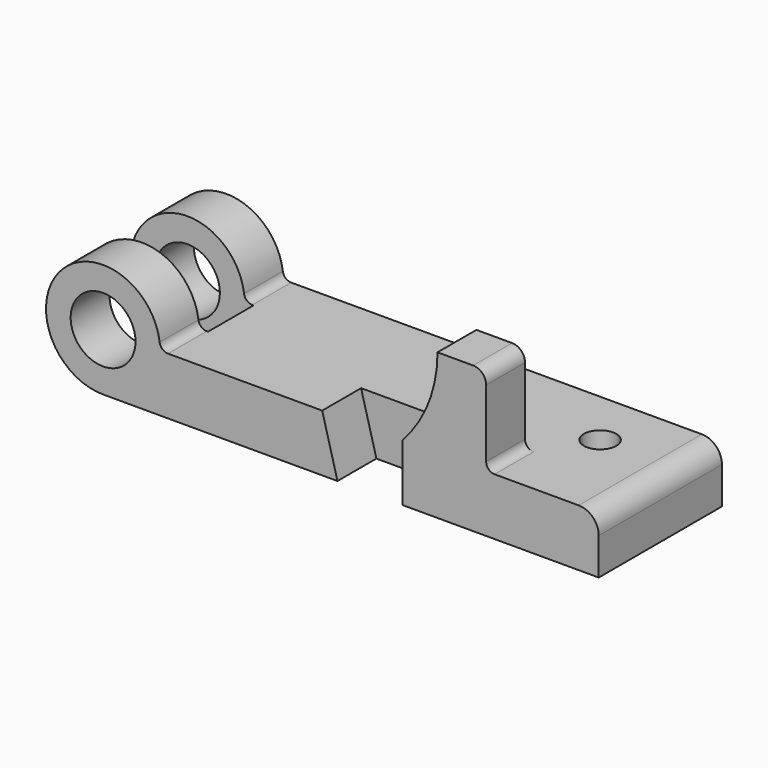
from build123d import *

# Parameters (mm, degrees)
F0_R     = 12.7
F1_DEPTH = 30.1625
F2_W     = 48.26
F2_H     = 22.3266
F3_DEPTH = 22.352
F5_DEPTH = 19.05
F7_DEPTH = 19.05
F8_R     = 6.35
F9_DEPTH = 22.353
F10_R    = 3.302
F11_R    = 7.874
F12_R    = 5.08


with BuildPart() as f1:
    # F0 (on Front) → F1 (new body, symmetric)
    with BuildSketch(Plane.XZ):
        with BuildLine():
            Line((194.2084, 0), (22.352, 0))
            ThreePointArc((22.352, 0), (15.8052507731, -15.8052507731), (0, -22.352))
            Line((0, -22.352), (194.2084, -22.352))
            Line((194.2084, -22.352), (194.2084, 0))
        make_face()
        with BuildLine():
            ThreePointArc((0, -22.352), (15.8052507731, -15.8052507731), (22.352, 0))
            ThreePointArc((22.352, 0), (-15.8052507731, 15.8052507731), (0, -22.352))
        make_face()
        Circle(F0_R, mode=Mode.SUBTRACT)
    extrude(amount=F1_DEPTH, both=True)

    # F2 (on Top) → F3 (cut, symmetric)
    with BuildSketch(Plane.XY):
        with Locations((1.778, 0)):
            Rectangle(F2_W, F2_H)
    extrude(amount=F3_DEPTH, both=True, mode=Mode.SUBTRACT)

    # F4 (on face) → F5 (cut)
    with BuildSketch(Plane.XZ.offset(30.1625)):
        Polygon((85.852, 0), (91.8464, -22.352), (117.2464, -22.352), (117.2464, 0), align=None)
    extrude(amount=-F5_DEPTH, mode=Mode.SUBTRACT)

    # F6 (on face) → F7 (join, through all)
    with BuildSketch(Plane.XZ.offset(30.1625)):
        with BuildLine():
            Line((117.2464, 0), (150.0886, 0))
            Line((150.0886, 0), (150.0886, 34.798))
            Line((150.0886, 34.798), (131.0386, 34.798))
            ThreePointArc((131.0386, 34.798), (127.4644153616, 16.0823576341), (117.2464, 0))
        make_face()
    extrude(amount=-F7_DEPTH)

    # F8 (on face) → F9 (cut, through all)
    with BuildSketch(Plane.XY):
        with Locations((164.3608808517, 7.8105)):
            Circle(F8_R)
    extrude(amount=-F9_DEPTH, mode=Mode.SUBTRACT)

    # F10
    f10_edges = [f1.edges().sort_by_distance(p)[0] for p in [
        (22.352, -20.6629, 0),
        (150.0886, -20.6375, 0),
        (22.352, 20.6629, 0),
    ]]
    fillet(f10_edges, radius=F10_R)

    # F11
    f11_edges = [f1.edges().sort_by_distance(p)[0] for p in [
        (194.2084, 0, 0),
    ]]
    fillet(f11_edges, radius=F11_R)

    # F12
    f12_edges = [f1.edges().sort_by_distance(p)[0] for p in [
        (150.0886, -20.6375, 34.798),
    ]]
    fillet(f12_edges, radius=F12_R)


solid = f1.part
